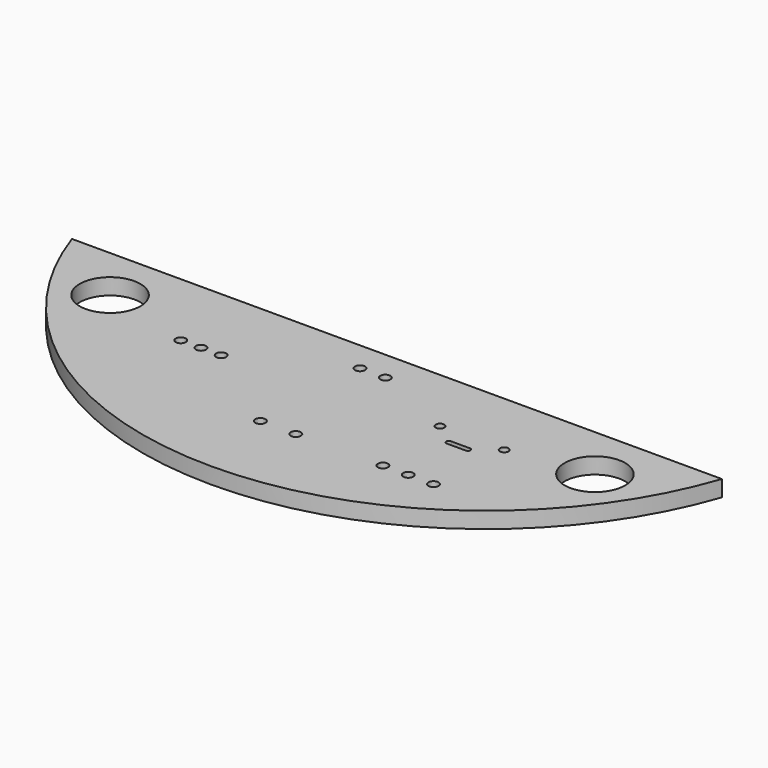
from build123d import *

# Parameters (mm, degrees)
F1_DEPTH  = 1.6
F2_R      = 3
F3_DEPTH  = 3
F6_R      = 0.5
F7_R      = 0.5
F8_R      = 0.5
F5_R      = 0.425
F4_R      = 0.5
F9_DEPTH  = 4
F10_R     = 2.1
F11_DEPTH = 0.2


with BuildPart() as f1:
    # F0 (on Top) → F1 (new body)
    with BuildSketch(Plane.XY):
        with BuildLine():
            Line((70.716411, 29.285482), (6.37358, 29.285482))
            ThreePointArc((6.37358, 29.285482), (38.544995, 6.285482), (70.716411, 29.285482))
        make_face()
    extrude(amount=F1_DEPTH)

    # F2 (on face) → F3 (cut)
    with BuildSketch(Plane.XY.offset(1.6)):
        with Locations((14.544995, 23.785482)):
            Circle(F2_R)
        with Locations((62.544995, 23.785482)):
            Circle(F2_R)
    extrude(amount=-F3_DEPTH, mode=Mode.SUBTRACT)

    # F6 (on face) + F7 (on face) + F8 (on face) + F5 (on face) + F4 (on face) → F9 (cut)
    with BuildSketch(Plane.XY.offset(1.6)):
        with Locations((48.844995, 14.685482)):
            Circle(F6_R)
        with Locations((53.844995, 14.685482)):
            Circle(F6_R)
        with Locations((51.344995, 14.685482)):
            Circle(F6_R)
    with BuildSketch(Plane.XY.offset(1.6)):
        with Locations((37.294995, 26.285482)):
            Circle(F7_R)
        with Locations((39.794995, 26.285482)):
            Circle(F7_R)
    with BuildSketch(Plane.XY.offset(1.6)):
        with Locations((36.794995, 14.585482)):
            Circle(F8_R)
        with Locations((40.294995, 14.585482)):
            Circle(F8_R)
    with BuildSketch(Plane.XY.offset(1.6)):
        with BuildLine():
            ThreePointArc((50.394995, 21.135482), (50.144995, 20.885482), (50.394995, 20.635482))
            Line((50.394995, 20.635482), (52.294995, 20.635482))
            ThreePointArc((52.294995, 20.635482), (52.544995, 20.885482), (52.294995, 21.135482))
            Line((52.294995, 21.135482), (50.394995, 21.135482))
        make_face()
        with Locations((48.164995, 22.585482)):
            Circle(F5_R)
        with Locations((54.524995, 22.585482)):
            Circle(F5_R)
    with BuildSketch(Plane.XY.offset(1.6)):
        with Locations((23.544995, 21.285482)):
            Circle(F4_R)
        with Locations((25.544995, 21.285482)):
            Circle(F4_R)
        with Locations((27.544995, 21.285482)):
            Circle(F4_R)
    extrude(amount=-F9_DEPTH, mode=Mode.SUBTRACT)

    # F10 (on face) → F11 (cut)
    with BuildSketch(Plane(origin=(0, 0, 0), x_dir=(1, 0, 0), z_dir=(0, 0, -1))):
        with Locations((62.544995, -23.785482)):
            Circle(F10_R)
        with Locations((14.544995, -23.785482)):
            Circle(F10_R)
    extrude(amount=-F11_DEPTH, mode=Mode.SUBTRACT)


solid = f1.part
